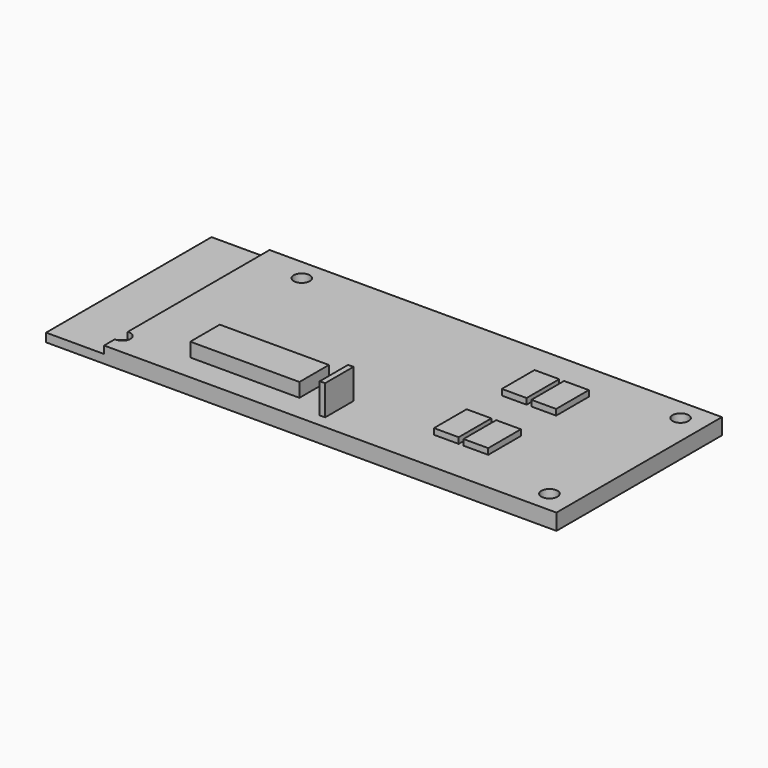
from build123d import *

# Parameters (mm, degrees)
F0_W      = 95
F0_H      = 38.5
F1_DEPTH  = 1.6
F2_W      = 84.2
F2_H      = 38.5
F3_DEPTH  = 1.4
F4_W      = 20.32
F4_H      = 6.858
F5_DEPTH  = 2.6
F6_W      = 4.6
F6_H      = 7.6
F7_DEPTH  = 1.1
F8_W      = 1
F8_H      = 6.6
F9_DEPTH  = 5.6
F10_R     = 1.5
F11_DEPTH = 3


with BuildPart() as f1:
    # F0 (on Top) → F1 (new body)
    with BuildSketch(Plane.XY):
        with Locations((1.023077, 0)):
            Rectangle(F0_W, F0_H)
    extrude(amount=F1_DEPTH)

    # F2 (on face) → F3 (join)
    with BuildSketch(Plane.XY.offset(1.6)):
        with Locations((6.423077, 0)):
            Rectangle(F2_W, F2_H)
    extrude(amount=F3_DEPTH)

    # F4 (on face) → F5 (join)
    with BuildSketch(Plane.XY.offset(3)):
        with Locations((-13.376923, -10.95)):
            Rectangle(F4_W, F4_H)
    extrude(amount=F5_DEPTH)

    # F6 (on face) → F7 (join)
    with BuildSketch(Plane.XY.offset(3)):
        with Locations((27.123077, -7.45)):
            Rectangle(F6_W, F6_H)
        with Locations((21.623077, -7.45)):
            Rectangle(F6_W, F6_H)
        with Locations((21.623077, 8.35)):
            Rectangle(F6_W, F6_H)
        with Locations((27.123077, 8.35)):
            Rectangle(F6_W, F6_H)
    extrude(amount=F7_DEPTH)

    # F8 (on face) → F9 (join)
    with BuildSketch(Plane.XY.offset(3)):
        with Locations((3.043077, -13.55)):
            Rectangle(F8_W, F8_H)
    extrude(amount=F9_DEPTH)

    # F10 (on face) → F11 (cut)
    with BuildSketch(Plane.XY.offset(3)):
        with Locations((-26.476923, 15.25)):
            Circle(F10_R)
        with BuildLine():
            Line((-35.676923, -16.736607), (-35.676923, -13.763393))
            ThreePointArc((-35.676923, -13.763393), (-36.976923, -15.25), (-35.676923, -16.736607))
        make_face()
        with BuildLine():
            ThreePointArc((-35.676923, -16.736607), (-34.489502, -16.379159), (-33.976923, -15.25))
            ThreePointArc((-33.976923, -15.25), (-34.489502, -14.120841), (-35.676923, -13.763393))
            Line((-35.676923, -13.763393), (-35.676923, -16.736607))
        make_face()
        with Locations((44.023077, 15.25)):
            Circle(F10_R)
        with Locations((44.023077, -15.25)):
            Circle(F10_R)
    extrude(amount=-F11_DEPTH, mode=Mode.SUBTRACT)


solid = f1.part
